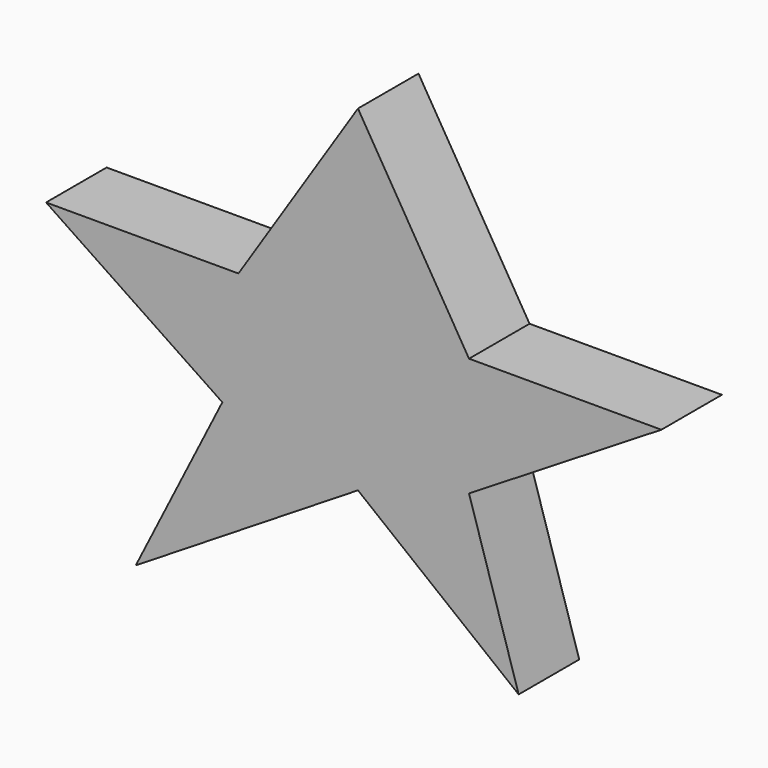
from build123d import *

# Parameters (mm, degrees)
F1_DEPTH = 14.986


with BuildPart() as f1:
    # F0 (on Front) → F1 (new body)
    with BuildSketch(Plane.XZ):
        Polygon((0, 53.534672), (-23.675139, 17.064579), (-61.775139, 17.064579), (-26.864672, -6.424161), (-44.012295, -40.447227), (0, -13.042993), (31.828937, -38.286633), (21.997882, -6.424161), (60.097882, 17.064579), (21.997882, 17.064579), align=None)
        Polygon((0, 53.534672), (-23.675139, 17.064579), (-61.775139, 17.064579), (-26.864672, -6.424161), (-44.012295, -40.447227), (0, -13.042993), (31.828937, -38.286633), (21.997882, -6.424161), (60.097882, 17.064579), (21.997882, 17.064579), align=None)
    extrude(amount=F1_DEPTH)


solid = f1.part
